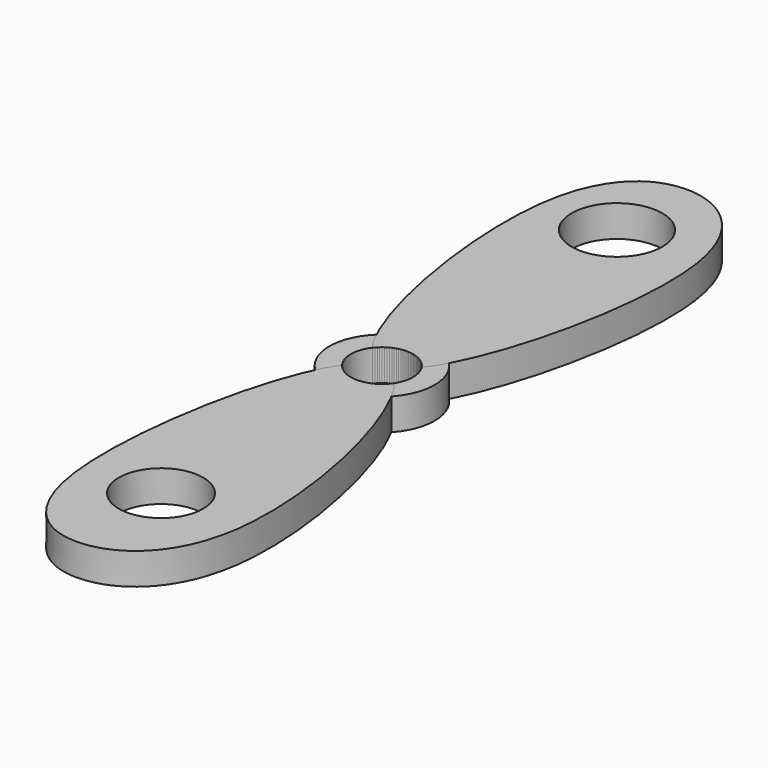
from build123d import *

# Parameters (mm, degrees)
F0_R     = 5
F2_DEPTH = 3
F3_R     = 2.9654149604
F4_DEPTH = 3
F5_R     = 4.3190481717
F6_DEPTH = 3
F7_R     = 4.0128846503
F8_DEPTH = 3


with BuildPart() as f2:
    # F0 (on Top) → F2 (new body)
    with BuildSketch(Plane.XY):
        Circle(F0_R)
    extrude(amount=F2_DEPTH)


with BuildPart() as f2b:
    # F1 (on face) → F2, piece 2 (new body)
    with BuildSketch(Plane.XY):
        with BuildLine():
            Line((0.1082780632, 0), (0, 0))
            add(Edge.make_bspline(
                [(0.1082780632, 0), (0.0721539391, -0.0011811757), (0.0360600267, -0.0011858813), (0, 0)],
                knots=[0.9975261926, 0.9975261926, 0.9975261926, 0.9975261926, 1, 1, 1, 1], degree=3))
        make_face()
        with BuildLine():
            add(Edge.make_bspline(
                [(0.1082780632, 0), (0.0721539391, 0.0011811757), (0.0360600267, 0.0011858813), (0, 0)],
                knots=[0.9975261926, 0.9975261926, 0.9975261926, 0.9975261926, 1, 1, 1, 1], degree=3))
            Line((0, 0), (0.1082780632, 0))
        make_face()
        with BuildLine():
            add(Edge.make_bspline(
                [(0.1082780632, 0), (0.0721539391, -0.0011811757), (0.0360600267, -0.0011858813), (0, 0)],
                knots=[0.9975261926, 0.9975261926, 0.9975261926, 0.9975261926, 1, 1, 1, 1], degree=3))
            add(Edge.make_bspline(
                [(0, 0), (-4.5202198092, -0.1486533614), (-10.8987291902, -30.310312004), (-0.0988943112, -38.6586537279), (12.639483903, -29.7840963528), (4.5610384466, -0.1455950163), (0.1082780632, 0)],
                knots=[0, 0, 0, 0, 0.3100983062, 0.4960086427, 0.6925977866, 0.9975261926, 0.9975261926, 0.9975261926, 0.9975261926], degree=3))
        make_face()
        with BuildLine():
            add(Edge.make_bspline(
                [(0, 0), (-4.5202198092, 0.1486533614), (-10.8987291902, 30.310312004), (-0.0988943112, 38.6586537279), (12.639483903, 29.7840963528), (4.5610384466, 0.1455950163), (0.1082780632, 0)],
                knots=[0, 0, 0, 0, 0.3100983062, 0.4960086427, 0.6925977866, 0.9975261926, 0.9975261926, 0.9975261926, 0.9975261926], degree=3))
            add(Edge.make_bspline(
                [(0.1082780632, 0), (0.0721539391, 0.0011811757), (0.0360600267, 0.0011858813), (0, 0)],
                knots=[0.9975261926, 0.9975261926, 0.9975261926, 0.9975261926, 1, 1, 1, 1], degree=3))
        make_face()
    extrude(amount=F2_DEPTH)


with BuildPart() as f4_tool:
    # F3 (on face) → F4 (new body)
    with BuildSketch(Plane(origin=(0, 0, 0), x_dir=(1, 0, 0), z_dir=(0, 0, -1))):
        Circle(F3_R)
    extrude(amount=-F4_DEPTH)


with BuildPart() as f2_1:
    add(f2.part)

    # F4: cut by f4_tool
    add(f4_tool.part, mode=Mode.SUBTRACT)


with BuildPart() as f2b_1:
    add(f2b.part)

    # F4: cut by f4_tool
    add(f4_tool.part, mode=Mode.SUBTRACT)

    # F5 (on face) → F6 (cut)
    with BuildSketch(Plane.XY.offset(3)):
        with Locations((0, 27.943385765)):
            Circle(F5_R)
    extrude(amount=-F6_DEPTH, mode=Mode.SUBTRACT)

    # F7 (on face) → F8 (cut)
    with BuildSketch(Plane.XY.offset(3)):
        with Locations((0, -26.2660551816)):
            Circle(F7_R)
    extrude(amount=-F8_DEPTH, mode=Mode.SUBTRACT)


solid = Compound([f2_1.part, f2b_1.part])
